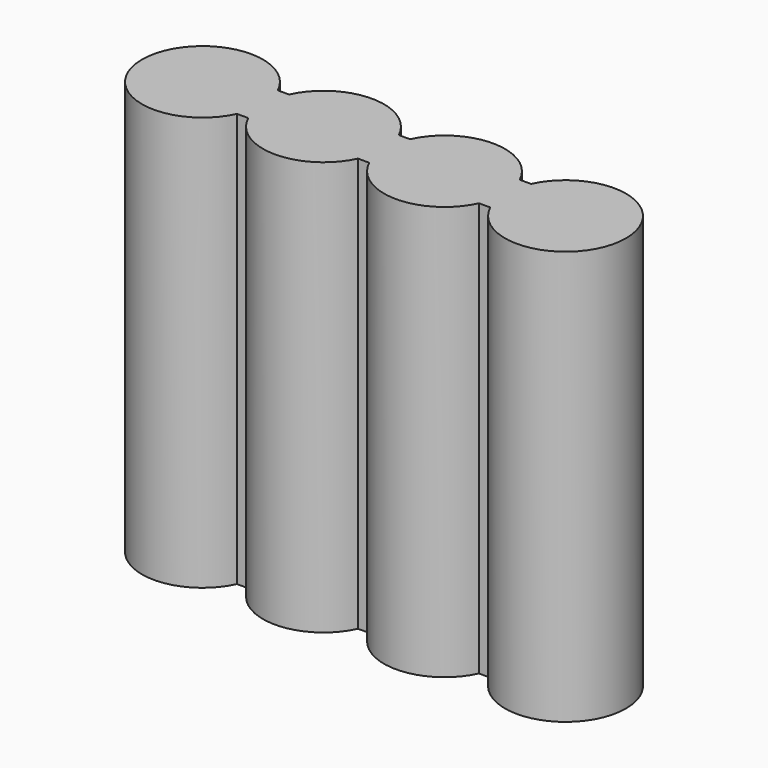
from build123d import *

# Parameters (mm, degrees)
PAD_DEPTH = 65


with BuildPart() as part:
    # Sketch → Pad (new body)
    with BuildSketch(Plane.XY):
        with BuildLine():
            ThreePointArc((18.116844, 13.5), (0, 9.5), (18.116844, 5.5))
            Line((18.116844, 5.5), (19.883156, 5.5))
            ThreePointArc((19.883156, 5.5), (28.5, 0), (37.116844, 5.5))
            Line((37.116844, 5.5), (38.883156, 5.5))
            ThreePointArc((38.883156, 5.5), (47.5, 0), (56.116844, 5.5))
            Line((56.116844, 5.5), (57.883156, 5.5))
            ThreePointArc((57.883156, 5.5), (76, 9.5), (57.883156, 13.5))
            Line((57.883156, 13.5), (56.116844, 13.5))
            ThreePointArc((56.116844, 13.5), (47.5, 19), (38.883156, 13.5))
            Line((38.883156, 13.5), (37.116844, 13.5))
            ThreePointArc((37.116844, 13.5), (28.5, 19), (19.883156, 13.5))
            Line((19.883156, 13.5), (18.116844, 13.5))
        make_face()
    extrude(amount=PAD_DEPTH)


solid = part.part
